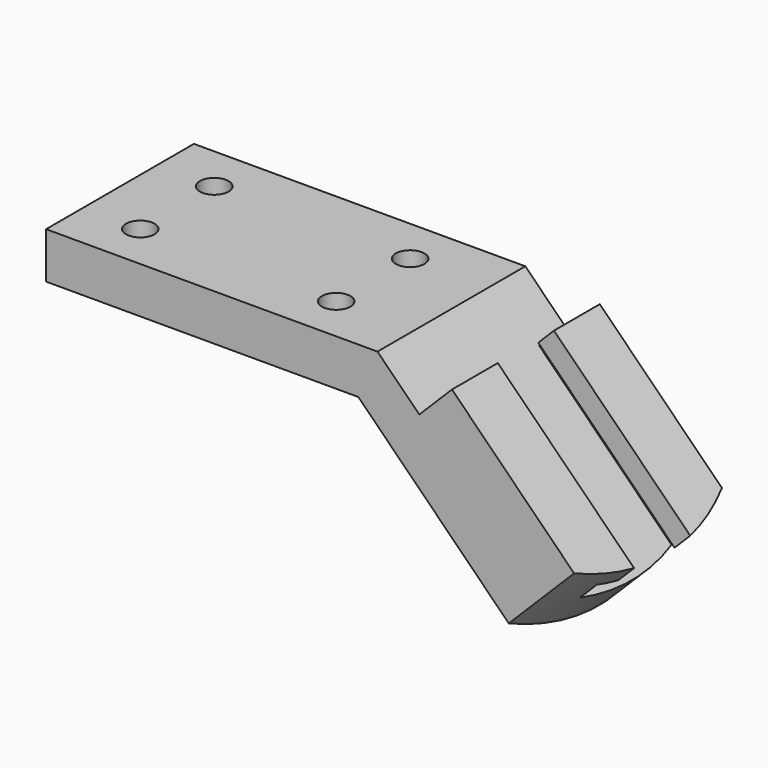
from build123d import *

# Parameters (mm, degrees)
F1_DEPTH       = 25.4
F3_D           = 7.874
F3_CBORE_D     = 12.7
F3_CBORE_DEPTH = 6.096
F5_DEPTH       = 12.7
F6_DEPTH       = 105.8292752574
F7_W           = 19.304
F7_H           = 6.096
F8_DEPTH       = 66.549


with BuildPart() as f1:
    # F0 (on Front) → F1 (new body, symmetric)
    with BuildSketch(Plane.XZ):
        Polygon((-85.852, 0), (0, 0), (45.8512699094, -45.8512699094), (54.8315260304, -36.8710137883), (5.2605122421, 12.7), (-85.852, 12.7), align=None)
    extrude(amount=F1_DEPTH, both=True)

    # F3 (through all)
    with Locations(Plane(origin=(0, 0, 0), x_dir=(1, 0, 0), z_dir=(0, 0, -1))):
        with Locations((-70.104, 12.7), (-16.256, 12.7), (-16.256, -12.7), (-70.104, -12.7)):
            CounterBoreHole(F3_D / 2, F3_CBORE_D / 2, F3_CBORE_DEPTH)

    # F4 (on face) → F5 (join)
    with BuildSketch(Plane(origin=(8.9802561211, 0, 8.9802561211), x_dir=(0.7071067812, 0, -0.7071067812), z_dir=(0.7071067812, 0, 0.7071067812))):
        with BuildLine():
            Line((10.9954877579, -25.4), (58.4765061126, -25.4))
            ThreePointArc((58.4765061126, -25.4), (64.8434877579, 0), (58.4765061126, 25.4))
            Line((58.4765061126, 25.4), (10.9954877579, 25.4))
            Line((10.9954877579, 25.4), (10.9954877579, -25.4))
        make_face()
    extrude(amount=F5_DEPTH)

    # F6 (cut, through all): faces of the model
    f6_faces = [f1.faces().sort_by_distance(p)[0] for p in [
        (53.495770348, -19.1275210106, -35.5352581058),
        (53.495770348, 19.1275210106, -35.5352581058),
    ]]
    extrude(f6_faces, amount=-F6_DEPTH, mode=Mode.SUBTRACT)

    # F7 (on face) → F8 (cut, through all)
    with BuildSketch(Plane(origin=(7.774983956, 0, -7.774983956), x_dir=(0, -1, 0), z_dir=(-0.7071067812, 0, 0.7071067812))):
        Polygon((-15.748, 19.304), (-15.748, 12.7), (15.748, 12.7), (15.748, 19.304), (9.652, 19.304), (-9.652, 19.304), align=None)
        with Locations((0, 22.352)):
            Rectangle(F7_W, F7_H)
    extrude(amount=-F8_DEPTH, mode=Mode.SUBTRACT)


solid = f1.part
